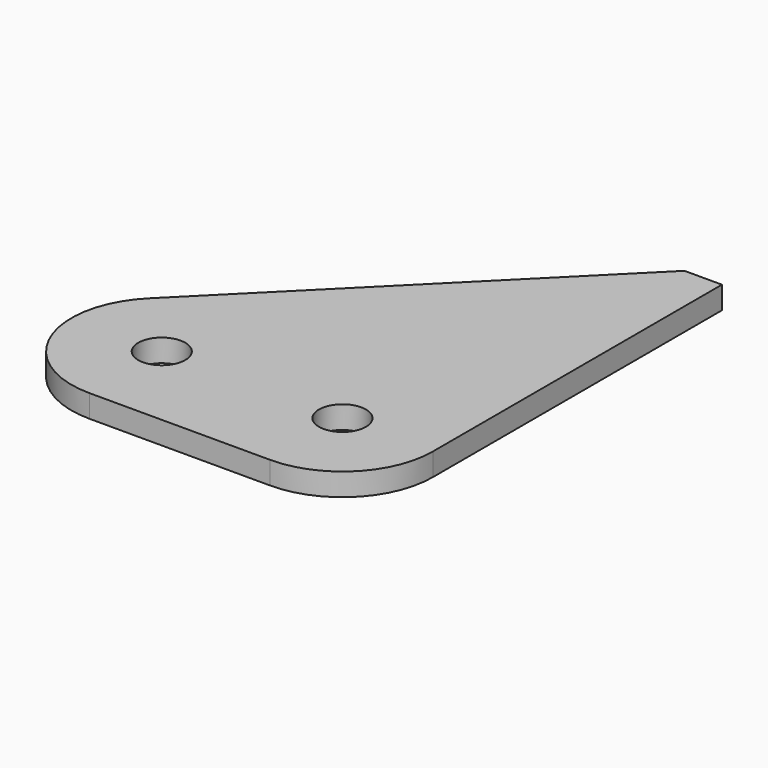
from build123d import *

# Parameters (mm, degrees)
F0_R     = 3.302
F1_DEPTH = 3.175


with BuildPart() as f1:
    # F0 (on Top) → F1 (new body)
    with BuildSketch(Plane.XY):
        with BuildLine():
            Line((-5.260512, 63.5), (-47.080256, 21.680256))
            ThreePointArc((-47.080256, 21.680256), (-49.83327, 7.83992), (-38.1, 0))
            Line((-38.1, 0), (-12.7, 0))
            ThreePointArc((-12.7, 0), (-3.719744, 3.719744), (0, 12.7))
            Line((0, 12.7), (0, 63.5))
            Line((0, 63.5), (-5.260512, 63.5))
        make_face()
        with Locations((-38.1, 12.7)):
            Circle(F0_R, mode=Mode.SUBTRACT)
        with Locations((-12.7, 12.7)):
            Circle(F0_R, mode=Mode.SUBTRACT)
    extrude(amount=F1_DEPTH)


solid = f1.part
